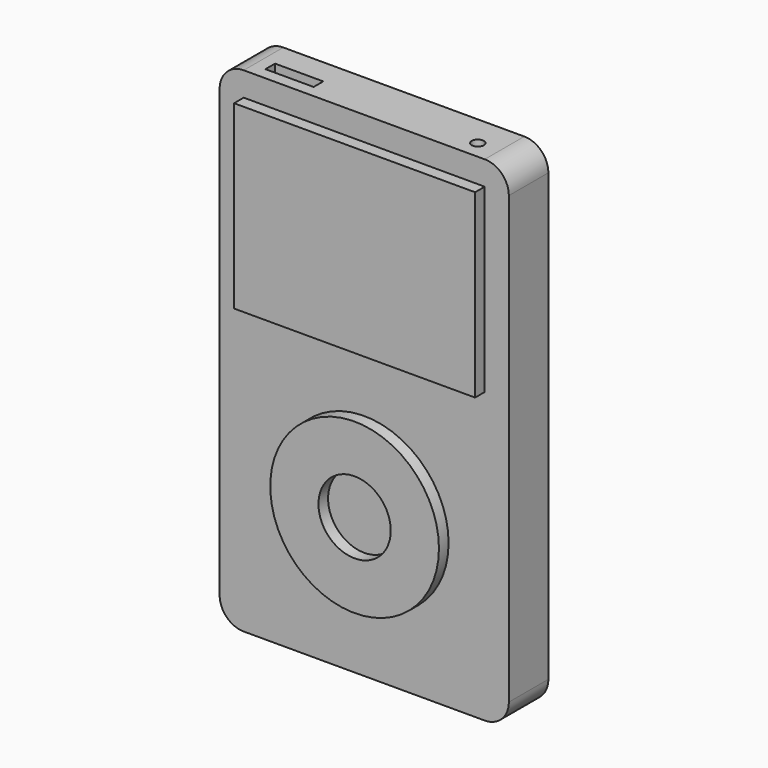
from build123d import *

# Parameters (mm, degrees)
F1_DEPTH = 10.414
F2_W     = 50.8
F2_H     = 38.1
F2_R     = 17.78
F2_R_2   = 7.62
F3_DEPTH = 2.54
F4_W     = 10.16
F4_H     = 2.54
F4_R     = 1.27
F5_DEPTH = 5.08
F6_W     = 12.7
F6_H     = 2.54
F7_DEPTH = 5.08


with BuildPart() as f1:
    # F0 (on Front) → F1 (new body)
    with BuildSketch(Plane.XZ):
        with BuildLine():
            Line((-5.08, 57.662666), (-55.88, 57.662666))
            ThreePointArc((-55.88, 57.662666), (-59.472102, 56.174768), (-60.96, 52.582666))
            Line((-60.96, 52.582666), (-60.96, -41.397334))
            ThreePointArc((-60.96, -41.397334), (-59.472102, -44.989437), (-55.88, -46.477334))
            Line((-55.88, -46.477334), (-5.08, -46.477334))
            ThreePointArc((-5.08, -46.477334), (-1.487898, -44.989437), (0, -41.397334))
            Line((0, -41.397334), (0, 52.582666))
            ThreePointArc((0, 52.582666), (-1.487898, 56.174768), (-5.08, 57.662666))
        make_face()
    extrude(amount=F1_DEPTH)

    # F2 (on face) → F3 (join)
    with BuildSketch(Plane.XZ.offset(10.414)):
        with Locations((-30.48, 33.532666)):
            Rectangle(F2_W, F2_H)
        with Locations((-30.48, -15.997334)):
            Circle(F2_R)
        with Locations((-30.48, -15.997334)):
            Circle(F2_R_2, mode=Mode.SUBTRACT)
    extrude(amount=F3_DEPTH)

    # F4 (on face) → F5 (cut)
    with BuildSketch(Plane.XY.offset(57.662666)):
        with Locations((-48.26, -6.604)):
            Rectangle(F4_W, F4_H)
        with Locations((-9.593616, -6.604)):
            Circle(F4_R)
    extrude(amount=-F5_DEPTH, mode=Mode.SUBTRACT)

    # F6 (on face) → F7 (cut)
    with BuildSketch(Plane(origin=(0, 0, -46.477334), x_dir=(1, 0, 0), z_dir=(0, 0, -1))):
        with Locations((-30.48, 7.796658)):
            Rectangle(F6_W, F6_H)
    extrude(amount=-F7_DEPTH, mode=Mode.SUBTRACT)


solid = f1.part
